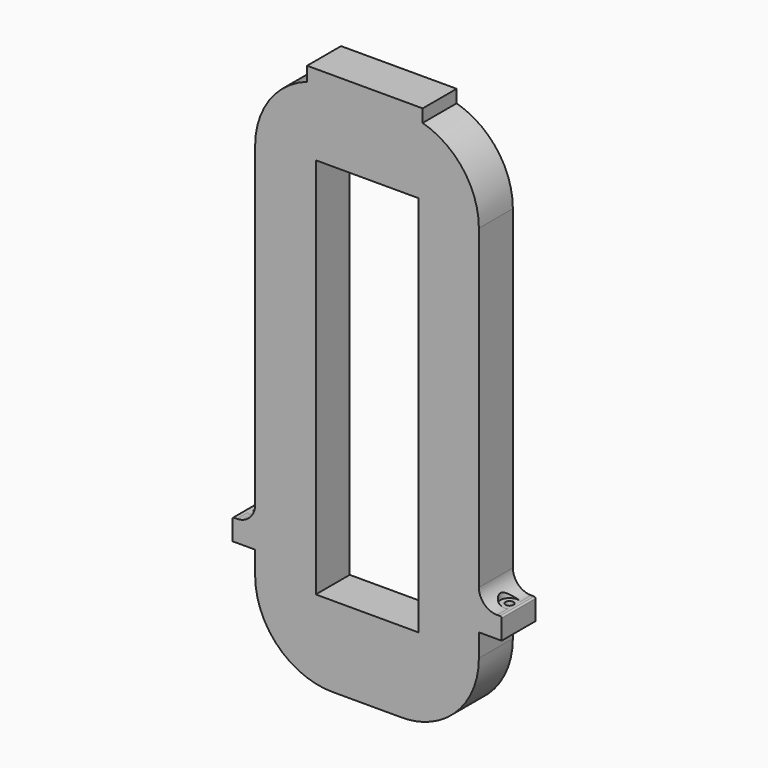
from build123d import *

# Parameters (mm, degrees)
F0_W     = 1716.2272
F0_H     = 6400.8
F1_DEPTH = 355.6
F2_R     = 25.4
F4_D     = 133.35
F5_R     = 152.4
F6_DEPTH = 7061.201


with BuildPart() as f1:
    # F0 (on Front) → F1 (new body, symmetric)
    with BuildSketch(Plane.XZ):
        with BuildLine():
            Line((931.926, 4546.6), (-1003.3, 4546.6))
            Line((-1003.3, 4546.6), (-1003.3, 4309.641359))
            ThreePointArc((-1003.3, 4309.641359), (-1633.593598, 3836.744133), (-1873.25, 3086.1))
            Line((-1873.25, 3086.1), (-1873.25, -2209.8))
            ThreePointArc((-1873.25, -2209.8), (-1962.523853, -2425.326147), (-2178.05, -2514.6))
            Line((-2178.05, -2514.6), (-2254.25, -2514.6))
            Line((-2254.25, -2514.6), (-2254.25, -2870.2))
            Line((-2254.25, -2870.2), (-1873.25, -2870.2))
            Line((-1873.25, -2870.2), (-1873.25, -3251.2))
            ThreePointArc((-1873.25, -3251.2), (-1633.593598, -4001.844133), (-1003.3, -4474.741359))
            ThreePointArc((-1003.3, -4474.741359), (-793.5879, -4528.509014), (-577.85, -4546.6))
            Line((-577.85, -4546.6), (577.85, -4546.6))
            ThreePointArc((577.85, -4546.6), (756.597886, -4534.208322), (931.926, -4497.270362))
            ThreePointArc((931.926, -4497.270362), (1611.467727, -4032.030042), (1873.25, -3251.2))
            Line((1873.25, -3251.2), (1873.25, -2870.2))
            Line((1873.25, -2870.2), (2254.25, -2870.2))
            Line((2254.25, -2870.2), (2254.25, -2514.6))
            Line((2254.25, -2514.6), (2178.05, -2514.6))
            ThreePointArc((2178.05, -2514.6), (1962.523853, -2425.326147), (1873.25, -2209.8))
            Line((1873.25, -2209.8), (1873.25, 3086.1))
            ThreePointArc((1873.25, 3086.1), (1611.467727, 3866.930042), (931.926, 4332.170362))
            Line((931.926, 4332.170362), (931.926, 4546.6))
        make_face()
        Rectangle(F0_W, F0_H, mode=Mode.SUBTRACT)
    extrude(amount=F1_DEPTH, both=True)

    # F2
    f2_edges = [f1.edges().sort_by_distance(p)[0] for p in [
        (2254.25, 177.8, -2514.6),
        (-2254.25, 177.8, -2514.6),
    ]]
    fillet(f2_edges, radius=F2_R)

    # F4 (through all)
    with Locations(Plane(origin=(0, 0, -2870.2), x_dir=(1, 0, 0), z_dir=(0, 0, -1))):
        with Locations((-2101.85, 0), (2101.85, 0)):
            Hole(F4_D / 2)

    # F5 (on face) → F6 (cut, through all)
    with BuildSketch(Plane.XY.offset(-2514.6)):
        with Locations((-2101.85, 0)):
            Circle(F5_R)
        with Locations((2101.85, 0)):
            Circle(F5_R)
    extrude(amount=F6_DEPTH, mode=Mode.SUBTRACT)


solid = f1.part
